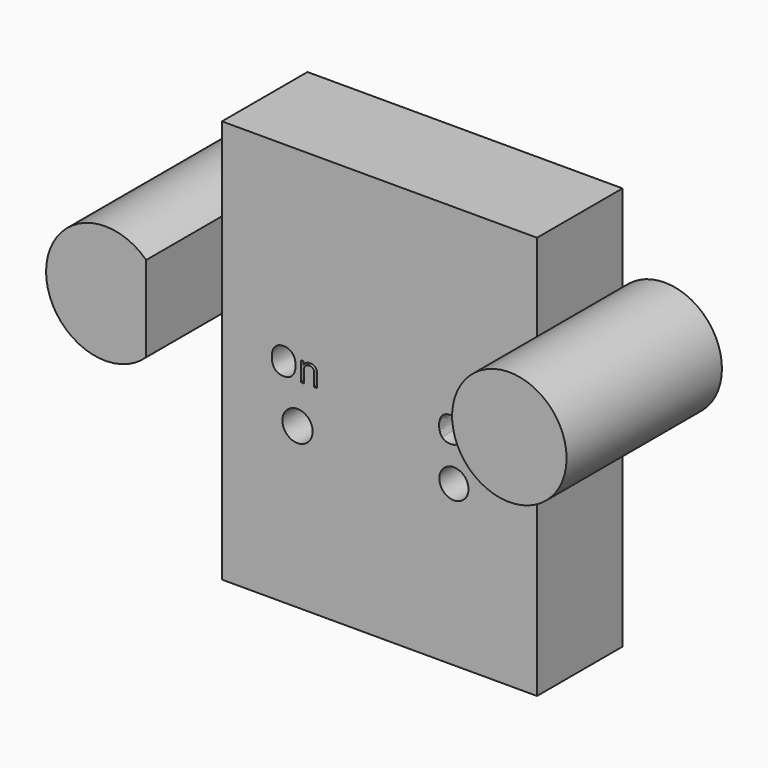
from build123d import *

# Parameters (mm, degrees)
F0_W     = 86.6790302098
F0_H     = 110.9990477562
F0_R     = 4.1600175763
F0_R_2   = 4.0127427681
F1_DEPTH = 29.40571
F2_R     = 16.2901854198
F3_DEPTH = 25.4
F2_R_2   = 18.5490265687
F4_DEPTH = 30.0706941634
F6_R     = 15.7455659212
F7_DEPTH = 53.42441


with BuildPart() as f1:
    # F0 (on Front) → F1 (new body)
    with BuildSketch(Plane.XZ):
        with Locations((-5.9241037816, -20.7343772054)):
            Rectangle(F0_W, F0_H)
        with Locations((-28.4816268831, -32.2692543268)):
            Circle(F0_R, mode=Mode.SUBTRACT)
        with Locations((14.5424827933, -32.2692543268)):
            Circle(F0_R_2, mode=Mode.SUBTRACT)
        with BuildLine():
            add(Edge.make_bspline(
                [(-29.8793415714, -15.1079879142), (-29.0187247447, -16.080656118), (-29.0187247447, -17.7925521566)],
                knots=[0, 0, 0, 1, 1, 1], degree=2))
            add(Edge.make_bspline(
                [(-29.0187247447, -17.7925521566), (-29.0187247447, -19.4997793878), (-29.8824541096, -20.4778945335)],
                knots=[0, 0, 0, 1, 1, 1], degree=2))
            add(Edge.make_bspline(
                [(-29.8824541096, -20.4778945335), (-30.7461834745, -21.4560096792), (-32.2822211019, -21.4560096792)],
                knots=[0, 0, 0, 1, 1, 1], degree=2))
            add(Edge.make_bspline(
                [(-32.2822211019, -21.4560096792), (-33.8524966501, -21.4560096792), (-34.7061102657, -20.4950134939)],
                knots=[0, 0, 0, 1, 1, 1], degree=2))
            add(Edge.make_bspline(
                [(-34.7061102657, -20.4950134939), (-35.5597238813, -19.5340173086), (-35.5597238813, -17.7832145419)],
                knots=[0, 0, 0, 1, 1, 1], degree=2))
            add(Edge.make_bspline(
                [(-35.5597238813, -17.7832145419), (-35.5597238813, -16.0464181972), (-34.703775862, -15.0908689538)],
                knots=[0, 0, 0, 1, 1, 1], degree=2))
            add(Edge.make_bspline(
                [(-34.703775862, -15.0908689538), (-33.8478278427, -14.1353197105), (-32.2728834872, -14.1353197105)],
                knots=[0, 0, 0, 1, 1, 1], degree=2))
            add(Edge.make_bspline(
                [(-32.2728834872, -14.1353197105), (-30.739958398, -14.1353197105), (-29.8793415714, -15.1079879142)],
                knots=[0, 0, 0, 1, 1, 1], degree=2))
        make_face(mode=Mode.SUBTRACT)
        with BuildLine():
            Line((-23.1002332584, -21.3579647243), (-23.9079369348, -21.3579647243))
            Line((-23.9079369348, -21.3579647243), (-23.9079369348, -17.9092723411))
            add(Edge.make_bspline(
                [(-23.9079369348, -17.9092723411), (-23.9079369348, -17.2587518464), (-24.2044062034, -16.9373822719)],
                knots=[0, 0, 0, 1, 1, 1], degree=2))
            add(Edge.make_bspline(
                [(-24.2044062034, -16.9373822719), (-24.5008754719, -16.6160126973), (-25.1342770061, -16.6160126973)],
                knots=[0, 0, 0, 1, 1, 1], degree=2))
            add(Edge.make_bspline(
                [(-25.1342770061, -16.6160126973), (-25.9699935268, -16.6160126973), (-26.3590608083, -17.0681088784)],
                knots=[0, 0, 0, 1, 1, 1], degree=2))
            add(Edge.make_bspline(
                [(-26.3590608083, -17.0681088784), (-26.7481280898, -17.5202050596), (-26.7481280898, -18.5613491049)],
                knots=[0, 0, 0, 1, 1, 1], degree=2))
            Line((-26.7481280898, -18.5613491049), (-26.7481280898, -21.3579647243))
            Line((-26.7481280898, -21.3579647243), (-27.5558317662, -21.3579647243))
            Line((-27.5558317662, -21.3579647243), (-27.5558317662, -16.0277429677))
            Line((-27.5558317662, -16.0277429677), (-26.899086195, -16.0277429677))
            Line((-26.899086195, -16.0277429677), (-26.7683595885, -16.7576331878))
            Line((-26.7683595885, -16.7576331878), (-26.7294528603, -16.7576331878))
            add(Edge.make_bspline(
                [(-26.7294528603, -16.7576331878), (-26.4804498001, -16.3638970989), (-26.0330224264, -16.1467975558)],
                knots=[0, 0, 0, 1, 1, 1], degree=2))
            add(Edge.make_bspline(
                [(-26.0330224264, -16.1467975558), (-25.5855950527, -15.9296980128), (-25.0362320512, -15.9296980128)],
                knots=[0, 0, 0, 1, 1, 1], degree=2))
            add(Edge.make_bspline(
                [(-25.0362320512, -15.9296980128), (-24.0729014622, -15.9296980128), (-23.5865673603, -16.3942443469)],
                knots=[0, 0, 0, 1, 1, 1], degree=2))
            add(Edge.make_bspline(
                [(-23.5865673603, -16.3942443469), (-23.1002332584, -16.858790681), (-23.1002332584, -17.8812594968)],
                knots=[0, 0, 0, 1, 1, 1], degree=2))
            Line((-23.1002332584, -17.8812594968), (-23.1002332584, -21.3579647243))
        make_face(mode=Mode.SUBTRACT)
        with BuildLine():
            add(Edge.make_bspline(
                [(15.9240844259, -16.8496811724), (16.7484452225, -17.7813728502), (16.7484452225, -19.4211502033)],
                knots=[0, 0, 0, 1, 1, 1], degree=2))
            add(Edge.make_bspline(
                [(16.7484452225, -19.4211502033), (16.7484452225, -21.0564554363), (15.9211030126, -21.9933645876)],
                knots=[0, 0, 0, 1, 1, 1], degree=2))
            add(Edge.make_bspline(
                [(15.9211030126, -21.9933645876), (15.0937608026, -22.9302737389), (13.6224333049, -22.9302737389)],
                knots=[0, 0, 0, 1, 1, 1], degree=2))
            add(Edge.make_bspline(
                [(13.6224333049, -22.9302737389), (12.1183102601, -22.9302737389), (11.3006576436, -22.0097623611)],
                knots=[0, 0, 0, 1, 1, 1], degree=2))
            add(Edge.make_bspline(
                [(11.3006576436, -22.0097623611), (10.4830050271, -21.0892509834), (10.4830050271, -19.4122059632)],
                knots=[0, 0, 0, 1, 1, 1], degree=2))
            add(Edge.make_bspline(
                [(10.4830050271, -19.4122059632), (10.4830050271, -17.7485773032), (11.3028937036, -16.8332833988)],
                knots=[0, 0, 0, 1, 1, 1], degree=2))
            add(Edge.make_bspline(
                [(11.3028937036, -16.8332833988), (12.1227823802, -15.9179894945), (13.631377545, -15.9179894945)],
                knots=[0, 0, 0, 1, 1, 1], degree=2))
            add(Edge.make_bspline(
                [(13.631377545, -15.9179894945), (15.0997236293, -15.9179894945), (15.9240844259, -16.8496811724)],
                knots=[0, 0, 0, 1, 1, 1], degree=2))
        make_face(mode=Mode.SUBTRACT)
        with BuildLine():
            Line((20.4513606271, -17.730688823), (20.4513606271, -18.3314436169))
            Line((20.4513606271, -18.3314436169), (19.1514643981, -18.3314436169))
            Line((19.1514643981, -18.3314436169), (19.1514643981, -22.8363592178))
            Line((19.1514643981, -22.8363592178), (18.3777876288, -22.8363592178))
            Line((18.3777876288, -22.8363592178), (18.3777876288, -18.3314436169))
            Line((18.3777876288, -18.3314436169), (17.4654751378, -18.3314436169))
            Line((17.4654751378, -18.3314436169), (17.4654751378, -17.9826182527))
            Line((17.4654751378, -17.9826182527), (18.3777876288, -17.702365396))
            Line((18.3777876288, -17.702365396), (18.3777876288, -17.4191311259))
            add(Edge.make_bspline(
                [(18.3777876288, -17.4191311259), (18.3777876288, -15.5363685832), (20.0220371019, -15.5363685832)],
                knots=[0, 0, 0, 1, 1, 1], degree=2))
            add(Edge.make_bspline(
                [(20.0220371019, -15.5363685832), (20.4275093201, -15.5363685832), (20.9731079667, -15.6988556118)],
                knots=[0, 0, 0, 1, 1, 1], degree=2))
            Line((20.9731079667, -15.6988556118), (20.7718625643, -16.3189895926))
            add(Edge.make_bspline(
                [(20.7718625643, -16.3189895926), (20.3246505589, -16.1743910442), (20.0086207418, -16.1743910442)],
                knots=[0, 0, 0, 1, 1, 1], degree=2))
            add(Edge.make_bspline(
                [(20.0086207418, -16.1743910442), (19.5703529765, -16.1743910442), (19.3609086873, -16.4658242011)],
                knots=[0, 0, 0, 1, 1, 1], degree=2))
            add(Edge.make_bspline(
                [(19.3609086873, -16.4658242011), (19.1514643981, -16.7572573579), (19.1514643981, -17.399751939)],
                knots=[0, 0, 0, 1, 1, 1], degree=2))
            Line((19.1514643981, -17.399751939), (19.1514643981, -17.730688823))
            Line((19.1514643981, -17.730688823), (20.4513606271, -17.730688823))
        make_face(mode=Mode.SUBTRACT)
        with BuildLine():
            Line((23.684703426, -17.730688823), (23.684703426, -18.3314436169))
            Line((23.684703426, -18.3314436169), (22.384807197, -18.3314436169))
            Line((22.384807197, -18.3314436169), (22.384807197, -22.8363592178))
            Line((22.384807197, -22.8363592178), (21.6111304277, -22.8363592178))
            Line((21.6111304277, -22.8363592178), (21.6111304277, -18.3314436169))
            Line((21.6111304277, -18.3314436169), (20.6988179367, -18.3314436169))
            Line((20.6988179367, -18.3314436169), (20.6988179367, -17.9826182527))
            Line((20.6988179367, -17.9826182527), (21.6111304277, -17.702365396))
            Line((21.6111304277, -17.702365396), (21.6111304277, -17.4191311259))
            add(Edge.make_bspline(
                [(21.6111304277, -17.4191311259), (21.6111304277, -15.5363685832), (23.2553799009, -15.5363685832)],
                knots=[0, 0, 0, 1, 1, 1], degree=2))
            add(Edge.make_bspline(
                [(23.2553799009, -15.5363685832), (23.6608521191, -15.5363685832), (24.2064507656, -15.6988556118)],
                knots=[0, 0, 0, 1, 1, 1], degree=2))
            Line((24.2064507656, -15.6988556118), (24.0052053632, -16.3189895926))
            add(Edge.make_bspline(
                [(24.0052053632, -16.3189895926), (23.5579933578, -16.1743910442), (23.2419635407, -16.1743910442)],
                knots=[0, 0, 0, 1, 1, 1], degree=2))
            add(Edge.make_bspline(
                [(23.2419635407, -16.1743910442), (22.8036957754, -16.1743910442), (22.5942514862, -16.4658242011)],
                knots=[0, 0, 0, 1, 1, 1], degree=2))
            add(Edge.make_bspline(
                [(22.5942514862, -16.4658242011), (22.384807197, -16.7572573579), (22.384807197, -17.399751939)],
                knots=[0, 0, 0, 1, 1, 1], degree=2))
            Line((22.384807197, -17.399751939), (22.384807197, -17.730688823))
            Line((22.384807197, -17.730688823), (23.684703426, -17.730688823))
        make_face(mode=Mode.SUBTRACT)
    extrude(amount=F1_DEPTH)

    # F2 (on Front) → F3 (join)
    with BuildSketch(Plane.XZ):
        with Locations((-60.5162531137, 0)):
            Circle(F2_R)
    extrude(amount=F3_DEPTH)

    # F4 (add): a face of the model
    f4_faces = [f1.faces().sort_by_distance(p)[0] for p in [
        (-61.9656260946, -25.4, 0),
    ]]
    extrude(f4_faces, amount=F4_DEPTH)

    # F6 (on Front) → F7 (join)
    with BuildSketch(Plane.XZ):
        with Locations((49.0159541368, 0)):
            Circle(F6_R)
    extrude(amount=F7_DEPTH)


with BuildPart() as f3:
    # F2 (on Front) → F3, piece 2 (new body)
    with BuildSketch(Plane.XZ):
        with Locations((56.2986545265, 0)):
            Circle(F2_R_2)
    extrude(amount=F3_DEPTH)


solid = f1.part
